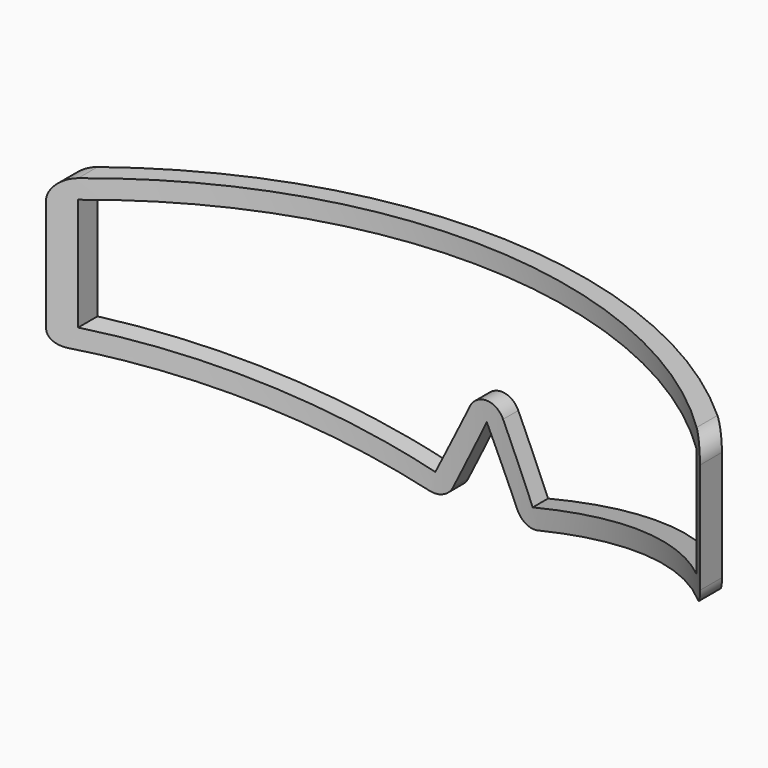
from build123d import *

# Parameters (mm, degrees)
F1_DEPTH = 150
F3_DEPTH = 200
F5_DEPTH = 100
F6_R     = 5
F7_R     = 5
F8_R     = 5
F9_R     = 5
F10_R    = 5
F11_R    = 5
F12_R    = 5


with BuildPart() as f1:
    # F0 (on Front) → F1 (new body)
    with BuildSketch(Plane.XZ):
        Polygon((2.699633, 10.554306), (13.111226, -10.555131), (91.699633, 13.444814), (91.699633, 51.205629), (2.699633, 51.205629), (-87.100367, 51.205629), (-87.100367, 12.852651), (-8.070518, -11.282105), align=None)
    extrude(amount=F1_DEPTH)

    # F2 (on face) → F3 (cut)
    with BuildSketch(Plane(origin=(0, 0, 0), x_dir=(-1, 0, 0), z_dir=(0, 1, 0))):
        Polygon((10.674811, -5.258827), (82.100367, 16.55367), (82.100367, 46.205629), (-86.699632, 46.205629), (-86.699632, 17.145834), (-15.715518, -4.531853), (-2.699633, 21.857769), align=None)
    extrude(amount=-F3_DEPTH, mode=Mode.SUBTRACT)

    # F4 (on face) → F5 (intersect)
    with BuildSketch(Plane.XY.offset(51.205629)):
        with BuildLine():
            Line((105.917034, -74.399856), (110.162811, -71.75914))
            ThreePointArc((110.162811, -71.75914), (-2.511346, -9.56452), (-114.475567, -73.028285))
            Line((-114.475567, -73.028285), (-110.200224, -75.620859))
            ThreePointArc((-110.200224, -75.620859), (-2.483098, -14.564441), (105.917034, -74.399856))
        make_face()
    extrude(amount=-F5_DEPTH, mode=Mode.INTERSECT)

    # F6
    f6_edges = [f1.edges().sort_by_distance(p)[0] for p in [
        (2.699633, -12.139598, 21.857769),
    ]]
    fillet(f6_edges, radius=F6_R)

    # F7
    f7_edges = [f1.edges().sort_by_distance(p)[0] for p in [
        (-8.070518, -12.216219, -11.282105),
    ]]
    fillet(f7_edges, radius=F7_R)

    # F8
    f8_edges = [f1.edges().sort_by_distance(p)[0] for p in [
        (13.111226, -12.92147, -10.555131),
    ]]
    fillet(f8_edges, radius=F8_R)

    # F9
    f9_edges = [f1.edges().sort_by_distance(p)[0] for p in [
        (-87.100367, -44.240648, 51.205629),
    ]]
    fillet(f9_edges, radius=F9_R)

    # F10
    f10_edges = [f1.edges().sort_by_distance(p)[0] for p in [
        (-87.100367, -44.240648, 12.852651),
    ]]
    fillet(f10_edges, radius=F10_R)

    # F11
    f11_edges = [f1.edges().sort_by_distance(p)[0] for p in [
        (91.699633, -52.049978, 51.205629),
    ]]
    fillet(f11_edges, radius=F11_R)

    # F12
    f12_edges = [f1.edges().sort_by_distance(p)[0] for p in [
        (91.699633, -52.049978, 13.444814),
    ]]
    fillet(f12_edges, radius=F12_R)


solid = f1.part
